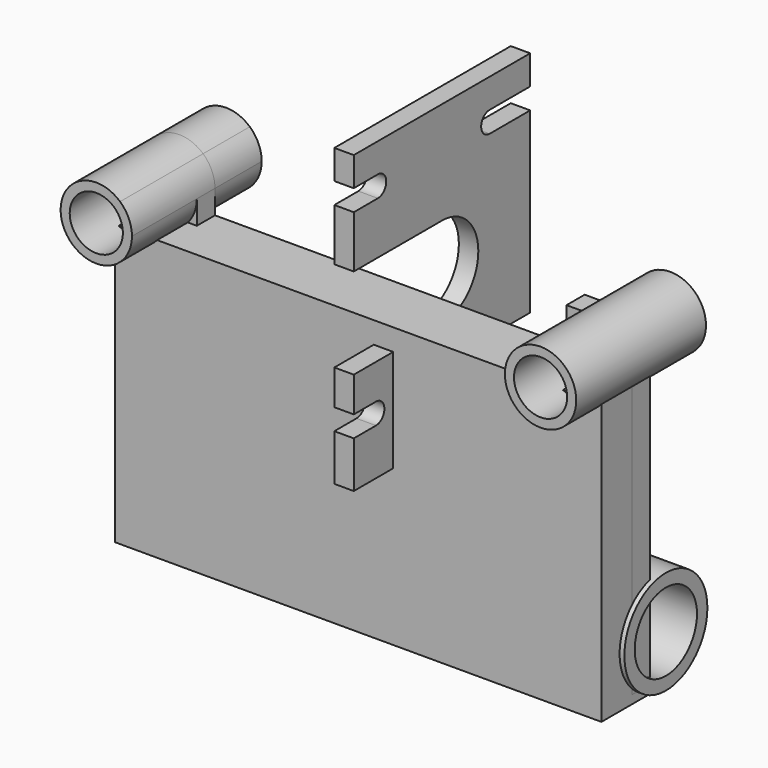
from build123d import *

# Parameters (mm, degrees)
F1_DEPTH       = 16
F1_DEPTH_BACK  = 9
F2_DEPTH       = 3.5
F0_W           = 3
F0_H           = 18.7
F0_H_2         = 26.9
F3_DEPTH       = 17
F3_DEPTH_BACK  = 17
F5_DEPTH       = 25
F7_DEPTH       = 25
F8_R           = 8
F8_R_2         = 6
F10_DEPTH      = 38
F10_DEPTH_BACK = 40
F11_DEPTH      = 40.8323298166
F11_DEPTH_BACK = 40
F9_W           = 3.5
F9_H           = 41.8236031978
F12_DEPTH      = 75


with BuildPart() as f1:
    # F0 (on Front) → F1 (new body, two sides)
    with BuildSketch(Plane.XZ) as f1_sk:
        with BuildLine():
            ThreePointArc((-39.4313298166, 25.7894517173), (-38.2304676194, 28.6885895201), (-35.3313298166, 29.8894517173))
            Line((-35.3313298166, 29.8894517173), (-31.6652692606, 29.8894517173))
            ThreePointArc((-31.6652692606, 29.8894517173), (-39.2204171131, 29.6785390138), (-39.4313298166, 22.1233911613))
            Line((-39.4313298166, 22.1233911613), (-39.4313298166, 25.7894517173))
        make_face()
        with BuildLine():
            Line((-31.6652692606, 29.8894517173), (-35.3313298166, 29.8894517173))
            ThreePointArc((-35.3313298166, 29.8894517173), (-32.4321920137, 28.6885895201), (-31.2313298166, 25.7894517173))
            ThreePointArc((-31.2313298166, 25.7894517173), (-35.3313298166, 21.6894517173), (-39.4313298166, 25.7894517173))
            Line((-39.4313298166, 25.7894517173), (-39.4313298166, 22.1233911613))
            ThreePointArc((-39.4313298166, 22.1233911613), (-33.3691881295, 20.6513586858), (-29.8313298166, 25.7894517173))
            ThreePointArc((-29.8313298166, 25.7894517173), (-30.3107056991, 28.0351884496), (-31.6652692606, 29.8894517173))
        make_face()
    extrude(amount=F1_DEPTH)
    extrude(f1_sk.sketch, amount=-F1_DEPTH_BACK)



with BuildPart() as f1b:
    # F0 (on Front) → F1, piece 2 (new body, two sides)
    with BuildSketch(Plane.XZ) as f1_2_sk:
        with BuildLine():
            ThreePointArc((38.6686701834, 25.7894517173), (35.4144069158, 30.8100758347), (29.5026096275, 29.8894517173))
            Line((29.5026096275, 29.8894517173), (33.1686701834, 29.8894517173))
            ThreePointArc((33.1686701834, 29.8894517173), (36.0678079863, 28.6885895201), (37.2686701834, 25.7894517173))
            Line((37.2686701834, 25.7894517173), (37.2686701834, 22.1233911613))
            ThreePointArc((37.2686701834, 22.1233911613), (38.3067632149, 23.8273100302), (38.6686701834, 25.7894517173))
        make_face()
        with BuildLine():
            Line((33.1686701834, 29.8894517173), (29.5026096275, 29.8894517173))
            ThreePointArc((29.5026096275, 29.8894517173), (29.2795828869, 21.9003644207), (37.2686701834, 22.1233911613))
            Line((37.2686701834, 22.1233911613), (37.2686701834, 25.7894517173))
            ThreePointArc((37.2686701834, 25.7894517173), (30.2695323806, 22.8903139144), (33.1686701834, 29.8894517173))
        make_face()
    extrude(amount=F1_DEPTH)
    extrude(f1_2_sk.sketch, amount=-F1_DEPTH_BACK)


with BuildPart() as f1_1:
    add(f1.part)

    add(f1b.part)  # F2 merges F1b
    # F0 (on Front) → F2 (join)
    with BuildSketch(Plane.XZ):
        with BuildLine():
            Line((-29.8313298166, 2.9894517173), (-29.8313298166, 25.7894517173))
            ThreePointArc((-29.8313298166, 25.7894517173), (-33.3691881295, 20.6513586858), (-39.4313298166, 22.1233911613))
            Line((-39.4313298166, 22.1233911613), (-39.4313298166, -19.7002120365))
            Line((-39.4313298166, -19.7002120365), (37.2686701834, -19.7002120365))
            Line((37.2686701834, -19.7002120365), (37.2686701834, 22.1233911613))
            ThreePointArc((37.2686701834, 22.1233911613), (29.2795828869, 21.9003644207), (29.5026096275, 29.8894517173))
            Line((29.5026096275, 29.8894517173), (5.1686701834, 29.8894517173))
            Line((5.1686701834, 29.8894517173), (5.1686701834, 2.9894517173))
            Line((5.1686701834, 2.9894517173), (2.1686701834, 2.9894517173))
            Line((2.1686701834, 2.9894517173), (-29.8313298166, 2.9894517173))
        make_face()
    extrude(amount=F2_DEPTH)

    # F0 (on Front) → F3 (join, two sides)
    with BuildSketch(Plane.XZ) as f3_sk:
        with Locations((3.6686701834, 39.2394517173)):
            Rectangle(F0_W, F0_H)
        with Locations((3.6686701834, 16.4394517173)):
            Rectangle(F0_W, F0_H_2)
    extrude(amount=F3_DEPTH)
    extrude(f3_sk.sketch, amount=-F3_DEPTH_BACK)

    # F4 (on face) → F5 (cut)
    with BuildSketch(Plane(origin=(2.1686701834, 0, 0), x_dir=(0, -1, 0), z_dir=(-1, 0, 0))):
        with BuildLine():
            Line((17, 32.7894517173), (0, 32.7894517173))
            ThreePointArc((0, 32.7894517173), (-7, 25.7894517173), (0, 18.7894517173))
            Line((0, 18.7894517173), (17, 18.7894517173))
            Line((17, 18.7894517173), (17, 32.7894517173))
        make_face()
    extrude(amount=-F5_DEPTH, mode=Mode.SUBTRACT)

    # F6 (on face) → F7 (cut)
    with BuildSketch(Plane(origin=(2.1686701834, 0, 0), x_dir=(0, -1, 0), z_dir=(-1, 0, 0))):
        with BuildLine():
            Line((-9.175, 44.0894517173), (-17, 44.0894517173))
            Line((-17, 44.0894517173), (-17, 40.8394517173))
            Line((-17, 40.8394517173), (-9.175, 40.8394517173))
            ThreePointArc((-9.175, 40.8394517173), (-7.55, 42.4644517173), (-9.175, 44.0894517173))
        make_face()
        with BuildLine():
            Line((17, 44.0894517173), (12.3663777485, 44.0894517173))
            ThreePointArc((12.3663777485, 44.0894517173), (10.7413777485, 42.4644517173), (12.3663777485, 40.8394517173))
            Line((12.3663777485, 40.8394517173), (17, 40.8394517173))
            Line((17, 40.8394517173), (17, 44.0894517173))
        make_face()
        with BuildLine():
            Line((17, 10.1415855085), (17, 13.3915855085))
            Line((17, 13.3915855085), (12.7283311018, 13.3915855085))
            ThreePointArc((12.7283311018, 13.3915855085), (11.1033311018, 11.7665855085), (12.7283311018, 10.1415855085))
            Line((12.7283311018, 10.1415855085), (17, 10.1415855085))
        make_face()
        with BuildLine():
            Line((-9.175, 13.3894517173), (-17, 13.3894517173))
            Line((-17, 13.3894517173), (-17, 10.1394517173))
            Line((-17, 10.1394517173), (-9.175, 10.1394517173))
            ThreePointArc((-9.175, 10.1394517173), (-7.55, 11.7644517173), (-9.175, 13.3894517173))
        make_face()
    extrude(amount=-F7_DEPTH, mode=Mode.SUBTRACT)

    # F8 (on Right) → F10 (join, two sides)
    with BuildSketch(Plane.YZ) as f10_sk:
        with Locations((2.1075860132, -13.1920464151)):
            Circle(F8_R)
        with Locations((2.1075860132, -13.1920464151)):
            Circle(F8_R_2, mode=Mode.SUBTRACT)
    extrude(amount=F10_DEPTH)
    extrude(f10_sk.sketch, amount=-F10_DEPTH_BACK)

    # F8 (on Right) → F11 (cut, two sides)
    with BuildSketch(Plane.YZ) as f11_sk:
        with Locations((2.1075860132, -13.1920464151)):
            Circle(F8_R_2)
    extrude(amount=-F11_DEPTH, mode=Mode.SUBTRACT)
    extrude(f11_sk.sketch, amount=F11_DEPTH_BACK, mode=Mode.SUBTRACT)

    # F9 (on face) → F12 (join)
    with BuildSketch(Plane.YZ.offset(37.2686701834)):
        with Locations((-1.75, 1.2115895624)):
            Rectangle(F9_W, F9_H)
        Polygon((-3.5, -19.7002120365), (-3.5, 22.1233911613), (-9.3987351283, 22.1233911613), (-9.3987351283, -20.9965128452), (0, -20.9965128452), (0, -19.7002120365), align=None)
    extrude(amount=-F12_DEPTH)


solid = f1_1.part
